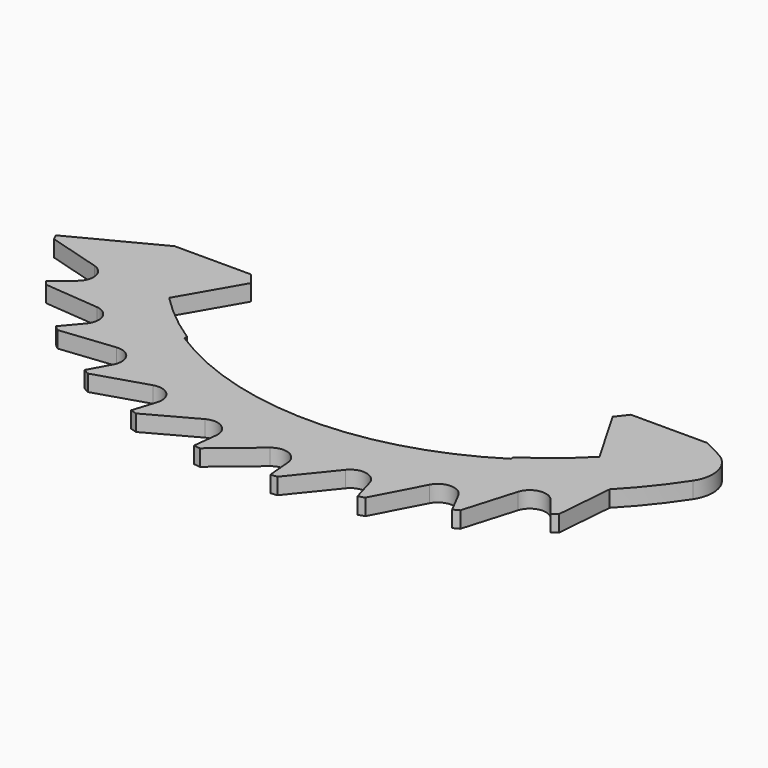
from build123d import *

# Parameters (mm, degrees)
F1_DEPTH = 0.5


with BuildPart() as f1:
    # F0 (on Top) → F1 (new body)
    with BuildSketch(Plane.XY):
        with BuildLine():
            Line((-5.81324, -4.248087), (-8.1605, -4.248087))
            Line((-8.1605, -4.248087), (-10.732831, -5.587158))
            ThreePointArc((-10.732831, -5.587158), (-10.68629, -5.675668), (-10.639018, -5.763791))
            Line((-10.639018, -5.763791), (-9.031771, -6.233106))
            ThreePointArc((-9.031771, -6.233106), (-8.681479, -6.615756), (-8.859146, -7.103157))
            Line((-8.859146, -7.103157), (-9.440273, -7.569098))
            ThreePointArc((-9.440273, -7.569098), (-9.377396, -7.646858), (-9.313879, -7.724096))
            Line((-9.313879, -7.724096), (-7.646027, -7.871644))
            ThreePointArc((-7.646027, -7.871644), (-7.227963, -8.178805), (-7.307377, -8.691464))
            Line((-7.307377, -8.691464), (-7.786714, -9.261592))
            ThreePointArc((-7.786714, -9.261592), (-7.709906, -9.325629), (-7.632571, -9.389028))
            Line((-7.632571, -9.389028), (-5.967894, -9.209166))
            ThreePointArc((-5.967894, -9.209166), (-5.498046, -9.429093), (-5.476171, -9.947405))
            Line((-5.476171, -9.947405), (-5.835387, -10.599918))
            ThreePointArc((-5.835387, -10.599918), (-5.747585, -10.647782), (-5.659391, -10.694919))
            Line((-5.659391, -10.694919), (-4.061547, -10.194525))
            ThreePointArc((-4.061547, -10.194525), (-3.55788, -10.318807), (-3.435553, -10.822952))
            Line((-3.435553, -10.822952), (-3.660912, -11.532897))
            ThreePointArc((-3.660912, -11.532897), (-3.565474, -11.562759), (-3.469792, -11.591831))
            Line((-3.469792, -11.591831), (-1.999883, -10.790041))
            ThreePointArc((-1.999883, -10.790041), (-1.48166, -10.813925), (-1.263558, -11.284624))
            Line((-1.263558, -11.284624), (-1.346442, -12.024853))
            ThreePointArc((-1.346442, -12.024853), (-1.247017, -12.03557), (-1.147507, -12.045465))
            Line((-1.147507, -12.045465), (0.138257, -10.972939))
            ThreePointArc((0.138257, -10.972939), (0.651219, -10.895513), (0.956757, -11.314766))
            Line((0.956757, -11.314766), (1.019517, -12.056973))
            ThreePointArc((1.019517, -12.056973), (1.119126, -12.048135), (1.218659, -12.038475))
            Line((1.218659, -12.038475), (2.271109, -10.736227))
            ThreePointArc((2.271109, -10.736227), (2.759196, -10.560452), (3.140484, -10.912226))
            Line((3.140484, -10.912226), (3.346488, -11.628027))
            ThreePointArc((3.346488, -11.628027), (3.442474, -11.599973), (3.538224, -11.571127))
            Line((3.538224, -11.571127), (4.317114, -10.088956))
            ThreePointArc((4.317114, -10.088956), (4.76166, -9.821553), (5.204118, -10.092396))
            Line((5.204118, -10.092396), (5.545489, -10.75442))
            ThreePointArc((5.545489, -10.75442), (5.634179, -10.708222), (5.722484, -10.661293))
            Line((5.722484, -10.661293), (6.19803, -9.055879))
            ThreePointArc((6.19803, -9.055879), (6.582035, -8.707073), (7.068744, -8.886629))
            Line((7.068744, -8.886629), (7.532427, -9.469559))
            ThreePointArc((7.532427, -9.469559), (7.610431, -9.406984), (7.687914, -9.343766))
            Line((7.687914, -9.343766), (7.833117, -7.579728))
            ThreePointArc((7.833117, -7.579728), (8.509339, -6.811839), (9.110578, -5.983926))
            ThreePointArc((9.110578, -5.983926), (9.242449, -5.18285), (8.736494, -4.547931))
            Line((8.736494, -4.547931), (8.1605, -4.248087))
            Line((8.1605, -4.248087), (5.81324, -4.248087))
            ThreePointArc((5.81324, -4.248087), (5.678957, -4.425997), (5.539231, -4.599665))
            Line((5.539231, -4.599665), (6.59, -6.41965))
            ThreePointArc((6.59, -6.41965), (5.83151, -7.115722), (5, -7.722694))
            Line((5, -7.722694), (5, -7.822694))
            ThreePointArc((5, -7.822694), (0, -9.284101), (-5, -7.822694))
            Line((-5, -7.822694), (-5, -7.722694))
            ThreePointArc((-5, -7.722694), (-5.83151, -7.115722), (-6.59, -6.41965))
            Line((-6.59, -6.41965), (-5.539231, -4.599665))
            ThreePointArc((-5.539231, -4.599665), (-5.678957, -4.425997), (-5.81324, -4.248087))
        make_face()
    extrude(amount=F1_DEPTH)


solid = f1.part
